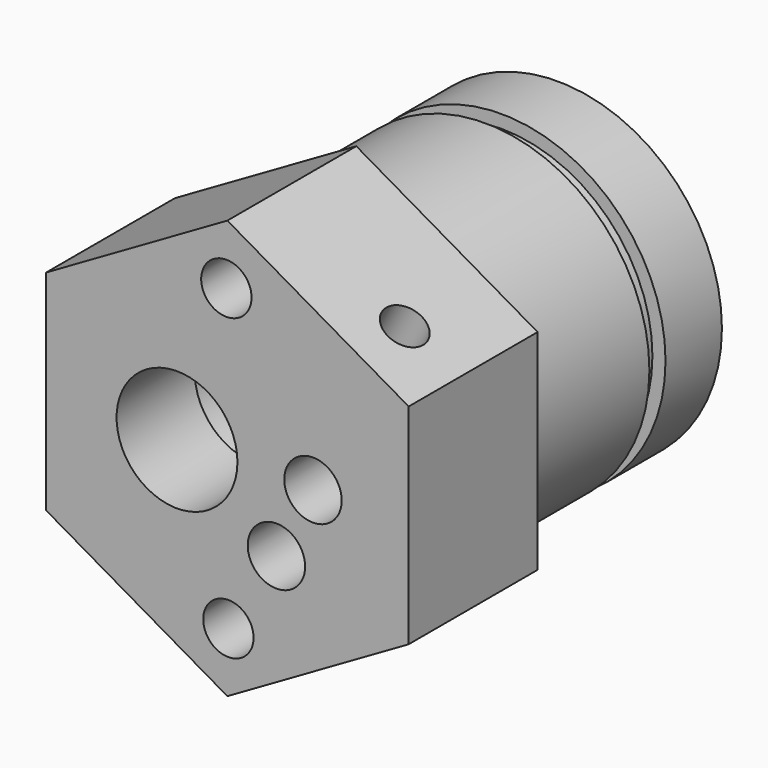
from build123d import *

# Parameters (mm, degrees)
F1_DEPTH  = 41
F2_R      = 24.4692351537
F2_R_2    = 16.3
F3_DEPTH  = 25
F4_R      = 21.9531203574
F4_R_2    = 15
F5_DEPTH  = 9
F6_R      = 16.3
F7_DEPTH  = 7
F8_R      = 2.85
F9_DEPTH  = 41.001
F10_R     = 13.8
F11_DEPTH = 2.3
F12_R     = 6
F13_DEPTH = 41.001
F14_R     = 6.5
F15_DEPTH = 29
F16_R     = 2.5
F17_DEPTH = 13
F18_R     = 2.5
F19_DEPTH = 14.4
F21_D     = 4.2
F21_DEPTH = 8
F21_TIP   = 1.2618073
F22_R     = 3
F23_DEPTH = 29


with BuildPart() as f1:
    # F0 (on Front) → F1 (new body)
    with BuildSketch(Plane.XZ):
        Polygon((-18, -10.3923048454), (0, -20.7846096908), (18, -10.3923048454), (18, 10.3923048454), (0, 20.7846096908), (-18, 10.3923048454), align=None)
    extrude(amount=-F1_DEPTH)

    # F2 (on face) → F3 (cut)
    with BuildSketch(Plane(origin=(0, 41, 0), x_dir=(-1, 0, 0), z_dir=(0, 1, 0))):
        Circle(F2_R)
        Circle(F2_R_2, mode=Mode.SUBTRACT)
    extrude(amount=-F3_DEPTH, mode=Mode.SUBTRACT)

    # F4 (on face) → F5 (cut)
    with BuildSketch(Plane(origin=(0, 41, 0), x_dir=(-1, 0, 0), z_dir=(0, 1, 0))):
        Circle(F4_R)
        Circle(F4_R_2, mode=Mode.SUBTRACT)
    extrude(amount=-F5_DEPTH, mode=Mode.SUBTRACT)

    # F6 (on face) → F7 (join)
    with BuildSketch(Plane(origin=(0, 41, 0), x_dir=(-1, 0, 0), z_dir=(0, 1, 0))):
        Circle(F6_R)
    extrude(amount=-F7_DEPTH)

    # F8 (on face) → F9 (cut, through all)
    with BuildSketch(Plane.XZ):
        with Locations((8.5, 0)):
            Circle(F8_R)
        with Locations((4.87, -6.95)):
            Circle(F8_R)
    extrude(amount=-F9_DEPTH, mode=Mode.SUBTRACT)

    # F10 (on face) → F11 (cut)
    with BuildSketch(Plane(origin=(0, 41, 0), x_dir=(-1, 0, 0), z_dir=(0, 1, 0))):
        Circle(F10_R)
    extrude(amount=-F11_DEPTH, mode=Mode.SUBTRACT)

    # F12 (on face) → F13 (cut, through all)
    with BuildSketch(Plane.XZ):
        with Locations((-5, 0)):
            Circle(F12_R)
    extrude(amount=-F13_DEPTH, mode=Mode.SUBTRACT)

    # F14 (on face) → F15 (cut)
    with BuildSketch(Plane(origin=(0, 38.7, 0), x_dir=(-1, 0, 0), z_dir=(0, 1, 0))):
        with Locations((5, 0)):
            Circle(F14_R)
    extrude(amount=-F15_DEPTH, mode=Mode.SUBTRACT)

    # F16 (on face) → F17 (cut)
    with BuildSketch(Plane.XZ):
        with Locations((-0.1, 14.8379019182)):
            Circle(F16_R)
    extrude(amount=-F17_DEPTH, mode=Mode.SUBTRACT)

    # F18 (on face) → F19 (cut)
    with BuildSketch(Plane.XZ):
        with Locations((0.1, -14.8379019182)):
            Circle(F18_R)
    extrude(amount=-F19_DEPTH, mode=Mode.SUBTRACT)

    # F21
    with Locations(Plane(origin=(9, 0, 15.5884572681), x_dir=(0.8660254038, 0, -0.5), z_dir=(0.5, 0, 0.8660254038))):
        with Locations((4.4923048454, 5.9)):
            Hole(F21_D / 2, depth=F21_DEPTH)
            with Locations((0, 0, -(F21_DEPTH + F21_TIP / 2))):  # 118° drill point
                Cone(0, F21_D / 2, F21_TIP, mode=Mode.SUBTRACT)

    # F22 (on face) → F23 (cut)
    with BuildSketch(Plane(origin=(0, 38.7, 0), x_dir=(-1, 0, 0), z_dir=(0, 1, 0))):
        with Locations((-4.62, 7.15)):
            Circle(F22_R)
    extrude(amount=-F23_DEPTH, mode=Mode.SUBTRACT)


solid = f1.part
